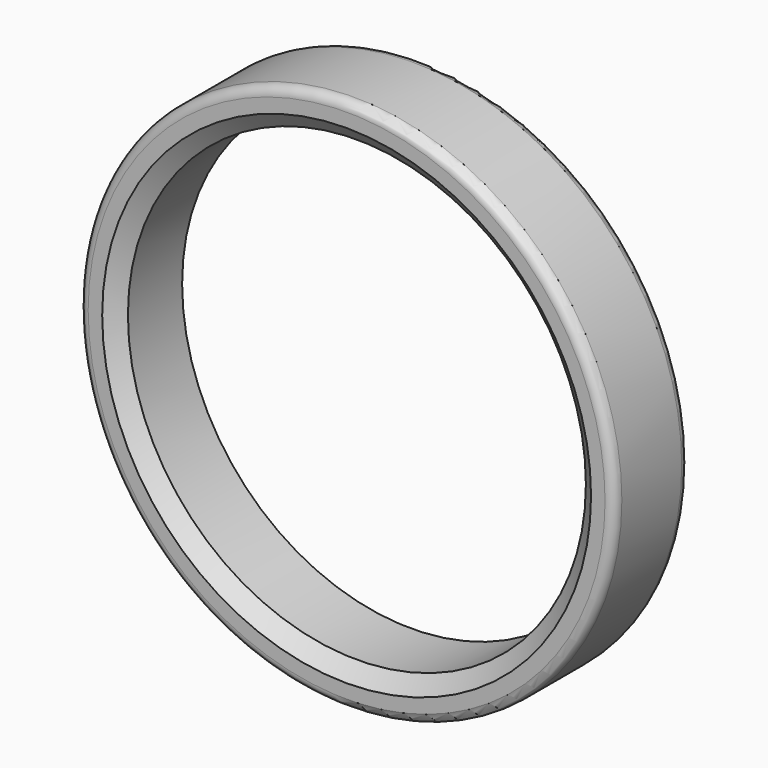
from build123d import *

# Parameters (mm, degrees)
F3_R = 2
F4_R = 2


with BuildPart() as f2:
    # F0 (on Top) → F2 (revolve)
    with BuildSketch(Plane.XY):
        Polygon((52.305677, 10), (49, 7.25), (49, -7.25), (52.305677, -10), (57.305677, -10), (57.305677, 10), align=None)
    revolve(axis=Axis((0, -6.822679, 0), (0, 1, 0)))

    # F3
    f3_edges = [f2.edges().sort_by_distance(p)[0] for p in [
        (-57.305677, -10, 0),
    ]]
    fillet(f3_edges, radius=F3_R)

    # F4
    f4_edges = [f2.edges().sort_by_distance(p)[0] for p in [
        (-57.305677, 10, 0),
    ]]
    fillet(f4_edges, radius=F4_R)


solid = f2.part
